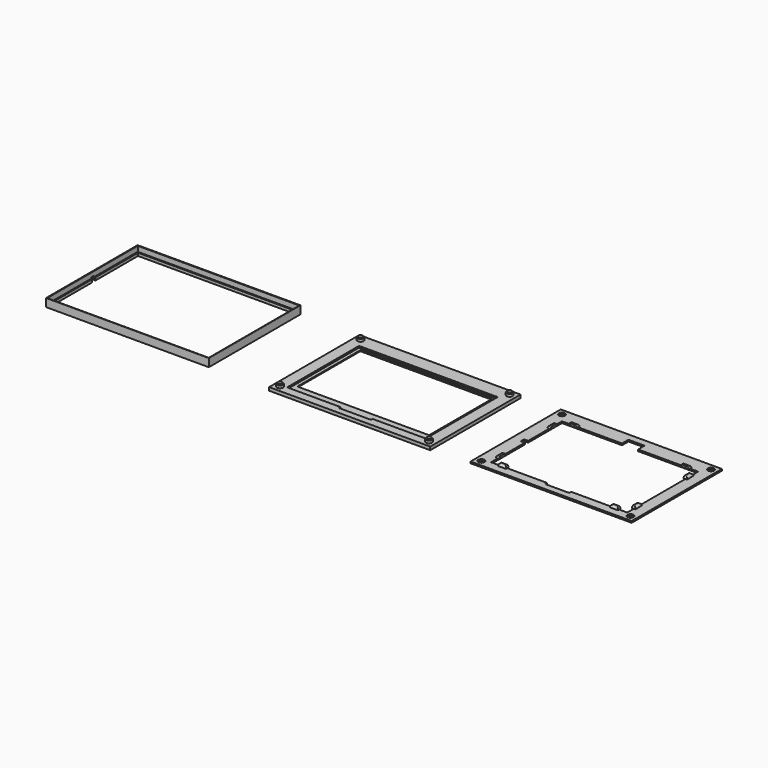
from build123d import *

# Parameters (mm, degrees)
SKETCH_W        = 200
SKETCH_H        = 140
SKETCH_W_2      = 163.5
SKETCH_H_2      = 98
PAD_DEPTH       = 4
POCKET_DEPTH    = 2
SKETCH004_R     = 3.75
PAD001_DEPTH    = 4
CHAMFER_SIZE    = 1
SKETCH005_W     = 200
SKETCH005_H     = 140
PAD002_DEPTH    = 2
POCKET001_DEPTH = 2.001
SKETCH007_R     = 3.875
POCKET002_DEPTH = 2.001
SKETCH008_W     = 10
SKETCH008_H     = 4
SKETCH008_W_2   = 4
SKETCH008_H_2   = 10
PAD003_DEPTH    = 2.5
FILLET_R        = 2
SKETCH009_W     = 202
SKETCH009_H     = 142
SKETCH009_W_2   = 197
SKETCH009_H_2   = 137
PAD004_DEPTH    = 10
SKETCH010_W     = 200.5
SKETCH010_H     = 140.5
SKETCH010_W_2   = 197
SKETCH010_H_2   = 137
POCKET003_DEPTH = 6.5
POCKET004_DEPTH = 2.5


with BuildPart() as framefront:
    # Sketch (on DatumPlane) → Pad (new body)
    with BuildSketch(Plane.XY.offset(-2)):
        Rectangle(SKETCH_W, SKETCH_H)
        Rectangle(SKETCH_W_2, SKETCH_H_2, mode=Mode.SUBTRACT)
    extrude(amount=PAD_DEPTH)

    # Sketch003 (on Face10 of Pad) → Pocket (cut)
    with BuildSketch(Plane.XY.offset(2)):
        Polygon((-86, 52), (-86, -59.5), (-20, -59.5), (-20, -62), (20, -62), (20, -59.5), (86, -59.5), (86, 52), align=None)
    extrude(amount=-POCKET_DEPTH, mode=Mode.SUBTRACT)

    # Sketch004 (on Face5 of Pocket) → Pad001 (join)
    with BuildSketch(Plane.XY.offset(2)):
        with Locations((-92.5, 62.5)):
            Circle(SKETCH004_R)
        with Locations((92.5, 62.5)):
            Circle(SKETCH004_R)
        with Locations((92.5, -62.5)):
            Circle(SKETCH004_R)
        with Locations((-92.5, -62.5)):
            Circle(SKETCH004_R)
    extrude(amount=PAD001_DEPTH)

    # Chamfer
    chamfer_edges = [framefront.edges().sort_by_distance(p)[0] for p in [
        (0, 49, -2),
        (-81.75, 0, -2),
        (81.75, 0, -2),
        (0, -49, -2),
        (-96.25, 62.5, 6),
        (-96.25, -62.5, 6),
        (88.75, -62.5, 6),
        (88.75, 62.5, 6),
    ]]
    chamfer(chamfer_edges, length=CHAMFER_SIZE)


with BuildPart() as frameback:
    # Sketch005 → Pad002 (new body)
    with BuildSketch(Plane.XY):
        with Locations((250, 0)):
            Rectangle(SKETCH005_W, SKETCH005_H)
    extrude(amount=PAD002_DEPTH)

    # Sketch006 (on Face6 of Pad002) → Pocket001 (cut, through all)
    with BuildSketch(Plane.XY.offset(2)):
        Polygon((335.5, -58.75), (335.5, 51.25), (261, 51.25), (261, 61.25), (241, 61.25), (241, 51.25), (166.5, 51.25), (166.5, -1.25), (161.5, -1.25), (161.5, -6.25), (166.5, -6.25), (166.5, -58.75), (236, -58.75), (236, -61.75), (266, -61.75), (266, -58.75), align=None)
    extrude(amount=-POCKET001_DEPTH, mode=Mode.SUBTRACT)

    # Sketch007 (on Face5 of Pocket001) → Pocket002 (cut, through all)
    with BuildSketch(Plane.XY.offset(2)):
        with Locations((157.5, 62.5)):
            Circle(SKETCH007_R)
        with Locations((342.5, 62.5)):
            Circle(SKETCH007_R)
        with Locations((342.5, -62.5)):
            Circle(SKETCH007_R)
        with Locations((157.5, -62.5)):
            Circle(SKETCH007_R)
    extrude(amount=-POCKET002_DEPTH, mode=Mode.SUBTRACT)

    # Sketch008 (on Face5 of Pocket002) → Pad003 (join)
    with BuildSketch(Plane.XY.offset(2)):
        with Locations((181.5, 51.25)):
            Rectangle(SKETCH008_W, SKETCH008_H)
        with Locations((166.5, 36.25)):
            Rectangle(SKETCH008_W_2, SKETCH008_H_2)
        with Locations((166.5, -43.75)):
            Rectangle(SKETCH008_W_2, SKETCH008_H_2)
        with Locations((181.5, -58.75)):
            Rectangle(SKETCH008_W, SKETCH008_H)
        with Locations((320.5, -58.75)):
            Rectangle(SKETCH008_W, SKETCH008_H)
        with Locations((335.5, -43.75)):
            Rectangle(SKETCH008_W_2, SKETCH008_H_2)
        with Locations((335.5, 36.25)):
            Rectangle(SKETCH008_W_2, SKETCH008_H_2)
        with Locations((320.5, 51.25)):
            Rectangle(SKETCH008_W, SKETCH008_H)
    extrude(amount=PAD003_DEPTH)

    # Fillet
    fillet_edges = [frameback.edges().sort_by_distance(p)[0] for p in [
        (181.5, 53.25, 4.5),
        (176.5, 51.25, 4.5),
        (186.5, 51.25, 4.5),
        (315.5, 51.25, 4.5),
        (320.5, 53.25, 4.5),
        (325.5, 51.25, 4.5),
        (335.5, 41.25, 4.5),
        (337.5, 36.25, 4.5),
        (335.5, 31.25, 4.5),
        (335.5, -38.75, 4.5),
        (337.5, -43.75, 4.5),
        (335.5, -48.75, 4.5),
        (325.5, -58.75, 4.5),
        (320.5, -60.75, 4.5),
        (315.5, -58.75, 4.5),
        (186.5, -58.75, 4.5),
        (181.5, -60.75, 4.5),
        (176.5, -58.75, 4.5),
        (166.5, -48.75, 4.5),
        (164.5, -43.75, 4.5),
        (166.5, -38.75, 4.5),
        (166.5, 31.25, 4.5),
        (164.5, 36.25, 4.5),
        (166.5, 41.25, 4.5),
    ]]
    fillet(fillet_edges, radius=FILLET_R)


with BuildPart() as framesurround:
    # Sketch009 → Pad004 (new body)
    with BuildSketch(Plane.XY):
        with Locations((-275, 0)):
            Rectangle(SKETCH009_W, SKETCH009_H)
        with Locations((-275, 0)):
            Rectangle(SKETCH009_W_2, SKETCH009_H_2, mode=Mode.SUBTRACT)
    extrude(amount=PAD004_DEPTH)

    # Sketch010 (on Face10 of Pad004) → Pocket003 (cut)
    with BuildSketch(Plane.XY.offset(10)):
        with Locations((-274.75, -0.25)):
            Rectangle(SKETCH010_W, SKETCH010_H)
        with Locations((-275, 0)):
            Rectangle(SKETCH010_W_2, SKETCH010_H_2, mode=Mode.SUBTRACT)
    extrude(amount=-POCKET003_DEPTH, mode=Mode.SUBTRACT)

    # Sketch011 (on Face1 of Pocket003) → Pocket004 (cut)
    with BuildSketch(Plane(origin=(-376, 0, 0), x_dir=(0, -1, 0), z_dir=(-1, 0, 0))):
        with BuildLine():
            Line((-2.5, 3), (-2.5, 0))
            Line((-2.5, 0), (2.5, 0))
            Line((2.5, 0), (2.5, 3))
            ThreePointArc((2.5, 3), (1.914214, 4.414214), (0.5, 5))
            Line((0.5, 5), (-0.5, 5))
            ThreePointArc((-0.5, 5), (-1.914214, 4.414214), (-2.5, 3))
        make_face()
    extrude(amount=-POCKET004_DEPTH, mode=Mode.SUBTRACT)


solid = Compound([framefront.part, frameback.part, framesurround.part])
